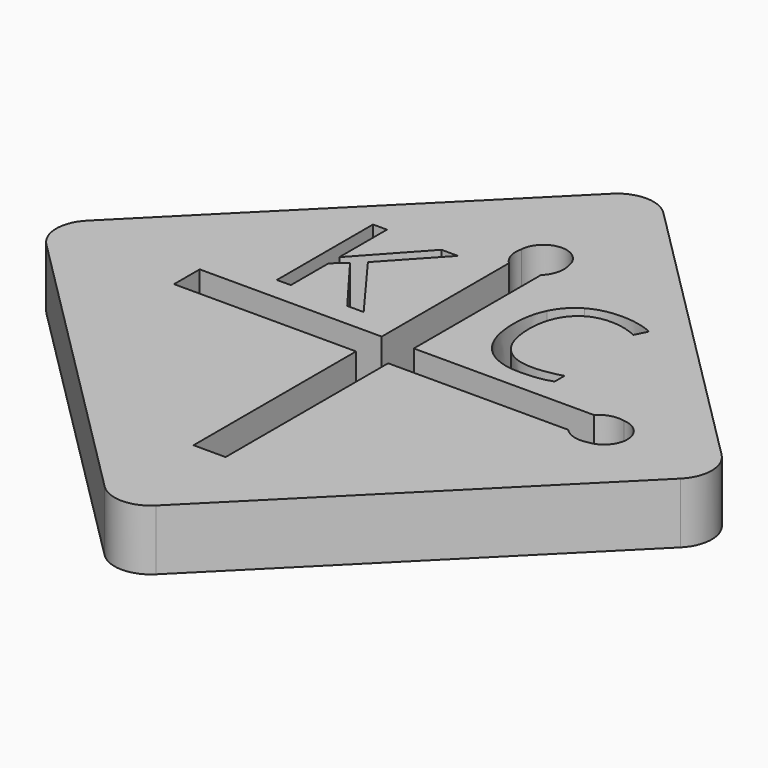
from build123d import *

# Parameters (mm, degrees)
F1_DEPTH = 2.5
F2_R     = 0.85
F3_DEPTH = 12.5


with BuildPart() as f1:
    # F0 (on Top) → F1 (new body)
    with BuildSketch(Plane.XY):
        with BuildLine():
            Line((13.081475452, -13.081475452), (1.0606601718, -1.0606601718))
            ThreePointArc((1.0606601718, -1.0606601718), (0, -0.6213203436), (-1.0606601718, -1.0606601718))
            Line((-1.0606601718, -1.0606601718), (-13.081475452, -13.081475452))
            ThreePointArc((-13.081475452, -13.081475452), (-13.5208152802, -14.1421356237), (-13.081475452, -15.2027957955))
            Line((-13.081475452, -15.2027957955), (-1.0606601718, -27.2236110757))
            ThreePointArc((-1.0606601718, -27.2236110757), (0, -27.6629509039), (1.0606601718, -27.2236110757))
            Line((1.0606601718, -27.2236110757), (13.081475452, -15.2027957955))
            ThreePointArc((13.081475452, -15.2027957955), (13.5208152802, -14.1421356237), (13.081475452, -13.081475452))
        make_face()
        Polygon((-4.2171601703, -9.7014023136), (-2.1490178092, -12.505221758), (-2.8271862119, -12.505221758), (-4.6338268369, -10.1007078691), (-5.1535751008, -10.561862383), (-5.1535751008, -12.505221758), (-5.7297469758, -12.505221758), (-5.7297469758, -7.5475394664), (-5.1535751008, -7.5475394664), (-5.1535751008, -10.0063068275), (-2.9053112119, -7.5475394664), (-2.2238876008, -7.5475394664), align=None, mode=Mode.SUBTRACT)
        with BuildLine():
            Line((-8.1334756687, -14.8039748892), (-8.1334756687, -13.4802963582))
            Line((-8.1334756687, -13.4802963582), (-0.6236797201, -13.4802963582))
            Line((-0.6236797201, -13.4802963582), (-0.6236797201, -6.9198086858))
            ThreePointArc((-0.6236797201, -6.9198086858), (-0.9032194318, -6.4583786209), (-0.9135835525, -5.9189782686))
            ThreePointArc((-0.9135835525, -5.9189782686), (0.0168397474, -5.0141534426), (0.9868078824, -5.876451129))
            ThreePointArc((0.9868078824, -5.876451129), (0.9900106564, -6.4384308628), (0.6999988109, -6.9198086858))
            Line((0.6999988109, -6.9198086858), (0.6999988109, -13.4802963582))
            Line((0.6999988109, -13.4802963582), (8.1334756687, -13.4802963582))
            ThreePointArc((8.1334756687, -13.4802963582), (8.5949057336, -13.2007566465), (9.134306086, -13.1903925258))
            ThreePointArc((9.134306086, -13.1903925258), (10.0391309119, -14.1208158258), (9.1768332255, -15.0907839607))
            ThreePointArc((9.1768332255, -15.0907839607), (8.6148534917, -15.0939867347), (8.1334756687, -14.8039748892))
            Line((8.1334756687, -14.8039748892), (0.6999988109, -14.8039748892))
            Line((0.6999988109, -14.8039748892), (0.6999988109, -23.1867600232))
            Line((0.6999988109, -23.1867600232), (-0.6236797201, -23.1867600232))
            Line((-0.6236797201, -23.1867600232), (-0.6236797201, -14.8039748892))
            Line((-0.6236797201, -14.8039748892), (-8.1334756687, -14.8039748892))
        make_face(mode=Mode.SUBTRACT)
        with BuildLine():
            add(Edge.make_bspline(
                [(5.635148946, -8.324292894), (5.0719979043, -8.060621019), (4.5088468627, -8.060621019)],
                knots=[0, 0, 0, 1, 1, 1], degree=2))
            add(Edge.make_bspline(
                [(4.5088468627, -8.060621019), (3.691789571, -8.060621019), (3.2186992932, -8.6047833454)],
                knots=[0, 0, 0, 1, 1, 1], degree=2))
            add(Edge.make_bspline(
                [(3.2186992932, -8.6047833454), (2.7456090154, -9.1489456718), (2.7456090154, -10.0951262274)],
                knots=[0, 0, 0, 1, 1, 1], degree=2))
            add(Edge.make_bspline(
                [(2.7456090154, -10.0951262274), (2.7456090154, -11.0673484496), (3.2018807168, -11.5984899426)],
                knots=[0, 0, 0, 1, 1, 1], degree=2))
            add(Edge.make_bspline(
                [(3.2018807168, -11.5984899426), (3.6581524182, -12.1296314357), (4.502336446, -12.1296314357)],
                knots=[0, 0, 0, 1, 1, 1], degree=2))
            add(Edge.make_bspline(
                [(4.502336446, -12.1296314357), (5.0209996404, -12.1296314357), (5.6861472099, -11.9429994913)],
                knots=[0, 0, 0, 1, 1, 1], degree=2))
            Line((5.6861472099, -11.9429994913), (5.6861472099, -12.4475567829))
            add(Edge.make_bspline(
                [(5.6861472099, -12.4475567829), (5.1707392238, -12.6417842135), (4.414445821, -12.6417842135)],
                knots=[0, 0, 0, 1, 1, 1], degree=2))
            add(Edge.make_bspline(
                [(4.414445821, -12.6417842135), (3.3196107515, -12.6417842135), (2.7244501613, -11.976636644)],
                knots=[0, 0, 0, 1, 1, 1], degree=2))
            add(Edge.make_bspline(
                [(2.7244501613, -11.976636644), (2.129289571, -11.3114890746), (2.129289571, -10.0875307413)],
                knots=[0, 0, 0, 1, 1, 1], degree=2))
            add(Edge.make_bspline(
                [(2.129289571, -10.0875307413), (2.129289571, -9.3214717135), (2.4157479043, -8.7452998385)],
                knots=[0, 0, 0, 1, 1, 1], degree=2))
            add(Edge.make_bspline(
                [(2.4157479043, -8.7452998385), (2.7022062377, -8.1691279635), (3.2431133557, -7.8571704982)],
                knots=[0, 0, 0, 1, 1, 1], degree=2))
            add(Edge.make_bspline(
                [(3.2431133557, -7.8571704982), (3.7840204738, -7.5452130329), (4.5164423488, -7.5452130329)],
                knots=[0, 0, 0, 1, 1, 1], degree=2))
            add(Edge.make_bspline(
                [(4.5164423488, -7.5452130329), (5.2955222099, -7.5452130329), (5.879289571, -7.8295012274)],
                knots=[0, 0, 0, 1, 1, 1], degree=2))
            Line((5.879289571, -7.8295012274), (5.635148946, -8.324292894))
        make_face(mode=Mode.SUBTRACT)
    extrude(amount=F1_DEPTH)

    # F2 (on Right) → F3 (cut, symmetric)
    with BuildSketch(Plane.YZ):
        with Locations((-2.4908210296, 1.292226194)):
            Circle(F2_R)
    extrude(amount=F3_DEPTH, both=True, mode=Mode.SUBTRACT)


solid = f1.part
